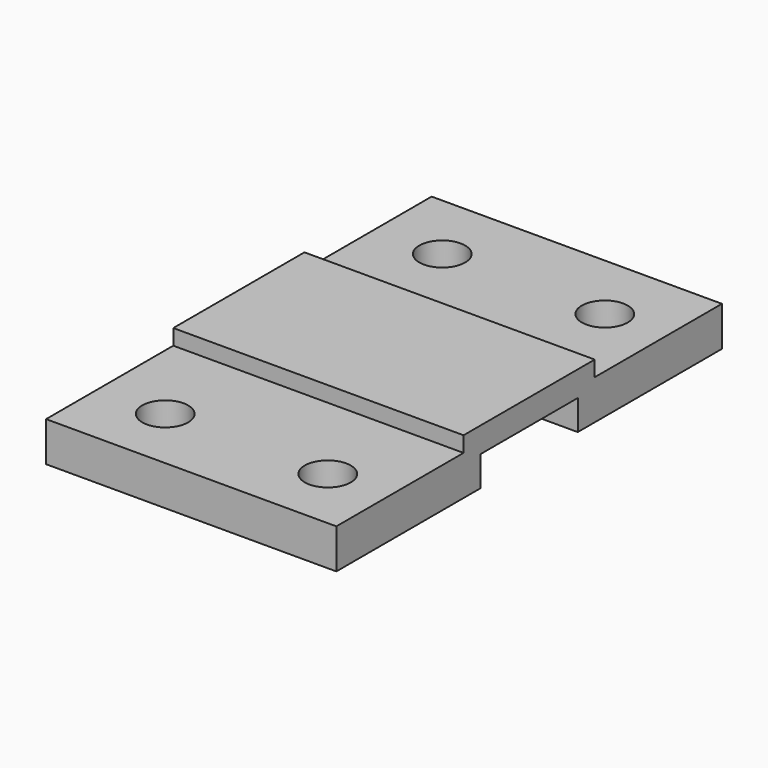
from build123d import *

# Parameters (mm, degrees)
F1_DEPTH = 41.075
F3_D     = 13


with BuildPart() as f1:
    # F0 (on Right) → F1 (new body, symmetric)
    with BuildSketch(Plane.YZ):
        Polygon((-51, 2.74), (-51, -8.5), (0, -8.5), (0, 0), (34.4, 0), (34.4, -8.5), (85.4, -8.5), (85.4, 2.74), (40.4, 2.74), (40.4, 7.14), (-6, 7.14), (-6, 2.74), align=None)
    extrude(amount=F1_DEPTH, both=True)

    # F3 (through all)
    with Locations(Plane.XY.offset(2.74)):
        with Locations((-22.075, 65.4), (23.925, 65.4), (23.925, -32.6), (-22.075, -32.6)):
            Hole(F3_D / 2)


solid = f1.part
